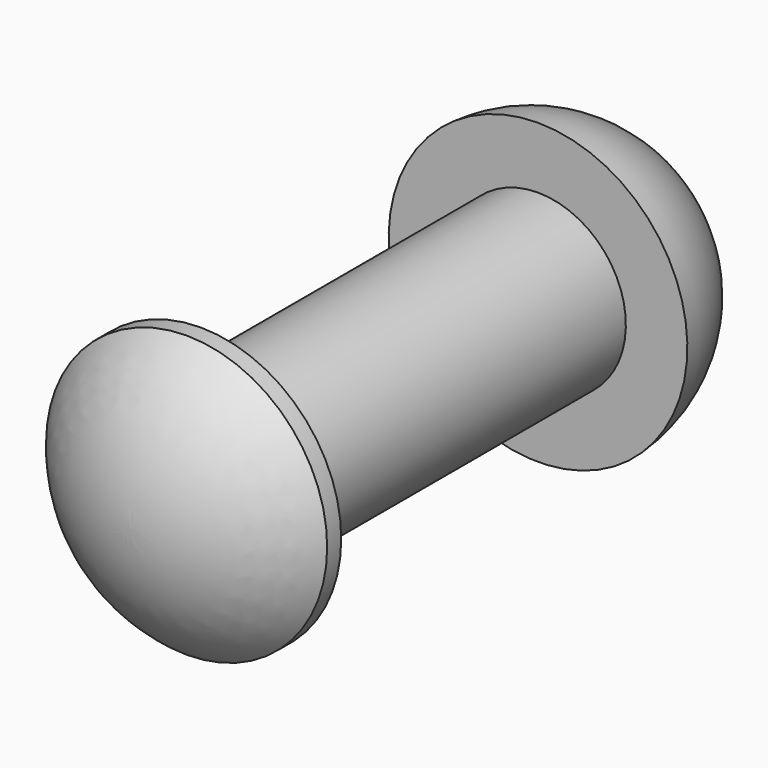
from build123d import *


with BuildPart() as f1:
    # F0 (on Right) → F1 (revolve)
    with BuildSketch(Plane.YZ):
        with BuildLine():
            ThreePointArc((0, 2.54), (-1.849688, 4.548679), (-4.445, 5.3975))
            Line((-4.445, 5.3975), (-4.445, 3.175))
            Line((-4.445, 3.175), (-19.685, 3.175))
            Line((-19.685, 3.175), (-19.685, 5.08))
            Line((-19.685, 5.08), (-20.32, 5.08))
            ThreePointArc((-20.32, 5.08), (-22.189613, 2.839806), (-22.86, 0))
            Line((-22.86, 0), (0, 0))
            Line((0, 0), (0, 2.54))
        make_face()
    revolve(axis=Axis((0, -11.43, 0), (0, 1, 0)))


solid = f1.part
